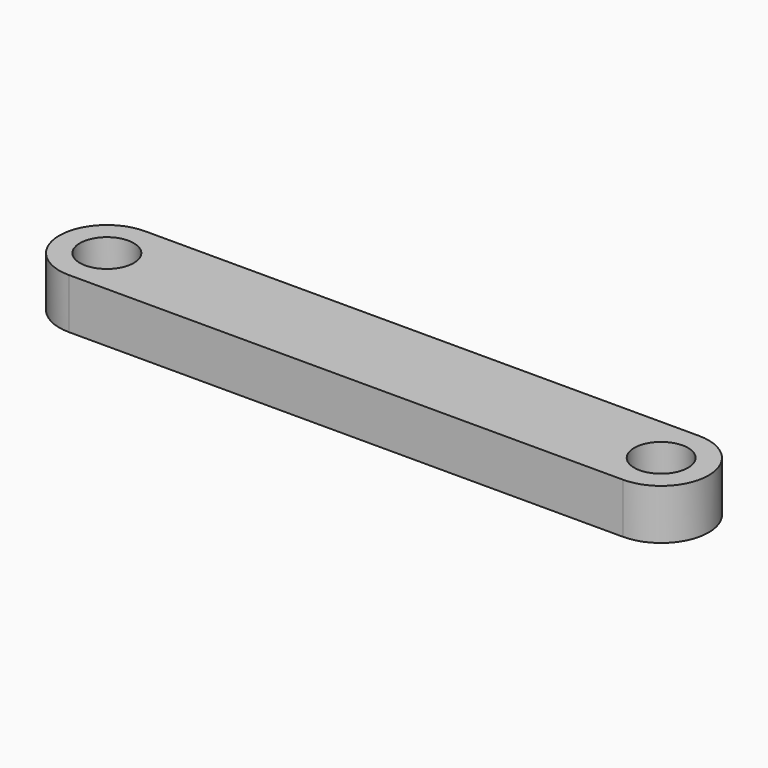
from build123d import *

# Parameters (mm, degrees)
PAD_DEPTH   = 3.175
SKETCH001_R = 1.7
HOLE_DEPTH  = 3.176


with BuildPart() as part:
    # Sketch → Pad (new body)
    with BuildSketch(Plane.XY):
        with BuildLine():
            ThreePointArc((0, 3), (-3, 0), (0, -3))
            Line((0, -3), (35, -3))
            ThreePointArc((35, -3), (38, 0), (35, 3))
            Line((0, 3), (35, 3))
        make_face()
    extrude(amount=PAD_DEPTH)

    # Sketch001 (on Face6 of Pad) → Hole (cut, through all)
    with BuildSketch(Plane.XY.offset(3.175)):
        Circle(SKETCH001_R)
        with Locations((35, 0)):
            Circle(SKETCH001_R)
    extrude(amount=-HOLE_DEPTH, mode=Mode.SUBTRACT)


solid = part.part
